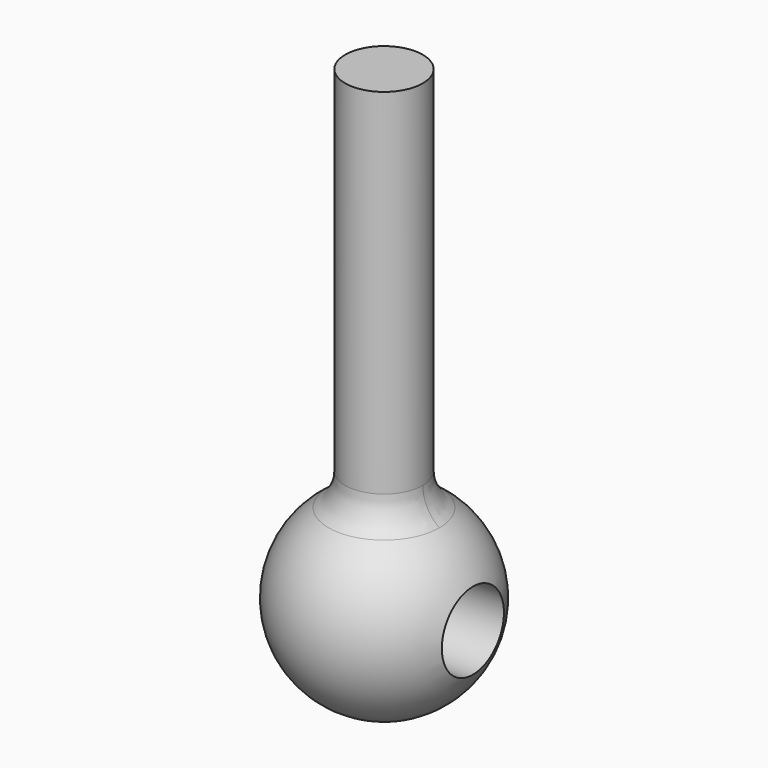
from build123d import *

# Parameters (mm, degrees)
F3_R     = 5
F4_DEPTH = 60
F2_R     = 5
F5_DEPTH = 15000
F6_R     = 5


with BuildPart() as f1:
    # F0 (on Right) → F1 (revolve)
    with BuildSketch(Plane.YZ):
        with BuildLine():
            Line((0, 12.5), (0, -12.5))
            ThreePointArc((0, -12.5), (12.5, 0), (0, 12.5))
        make_face()
    revolve(axis=Axis((0, 0, -1.2070862576), (0, 0, -1)))

    # F3 (on Top) → F4 (join)
    with BuildSketch(Plane.XY):
        Circle(F3_R)
    extrude(amount=F4_DEPTH)

    # F2 (on Right) → F5 (cut, symmetric)
    with BuildSketch(Plane.YZ):
        Circle(F2_R)
    extrude(amount=F5_DEPTH, both=True, mode=Mode.SUBTRACT)

    # F6
    f6_edges = [f1.edges().sort_by_distance(p)[0] for p in [
        (3.535534, 3.535534, 11.456439),
        (-3.535534, -3.535534, 11.456439),
    ]]
    fillet(f6_edges, radius=F6_R)


solid = f1.part
